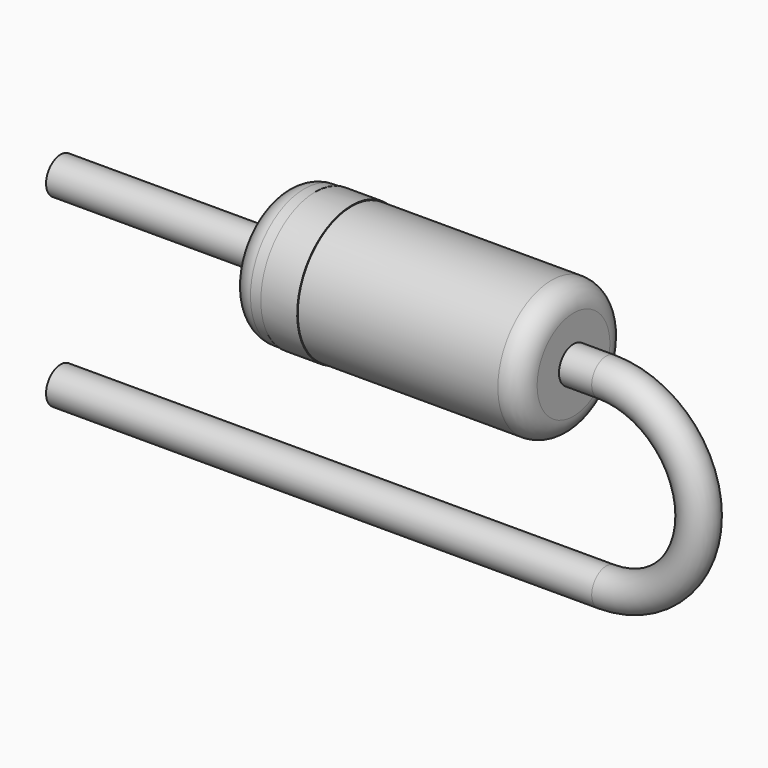
from build123d import *

# Parameters (mm, degrees)
SKETCH_R    = 0.25
SKETCH002_W = 4
SKETCH002_H = 0.925
FILLET_R    = 0.3
SKETCH003_W = 0.5
SKETCH003_H = 0.02


with BuildPart() as sweep_body:
    # Sweep: sweep along a path in Sketch001
    with BuildLine(Plane.XZ) as sweep_path:
        Line((-2.5, 0), (5, 0))
        ThreePointArc((5, 0), (6.27, 1.27), (5, 2.54))
        Line((5, 2.54), (-2.5, 2.54))
    # Sketch → Sweep (sweep)
    with BuildSketch(Plane.YZ.offset(-2.5)):
        Circle(SKETCH_R)
    sweep(path=sweep_path.line, is_frenet=True)


with BuildPart() as fillet_body:
    # Sketch002 → Revolution (revolve)
    with BuildSketch(Plane.XZ):
        with Locations((2.55, 3.0025)):
            Rectangle(SKETCH002_W, SKETCH002_H)
    revolve(axis=Axis((0.55, 0, 2.54), (1, 0, 0)))

    # Fillet
    fillet_edges = [fillet_body.edges().sort_by_distance(p)[0] for p in [
        (0.55, 0, 1.615),
        (4.55, 0, 1.615),
    ]]
    fillet(fillet_edges, radius=FILLET_R)


with BuildPart() as revolution001:
    # Sketch003 → Revolution001 (revolve)
    with BuildSketch(Plane.XZ):
        with Locations((1.25, 3.465)):
            Rectangle(SKETCH003_W, SKETCH003_H)
    revolve(axis=Axis((0, 0, 2.54), (1, 0, 0)))


solid = Compound([sweep_body.part, fillet_body.part, revolution001.part])
